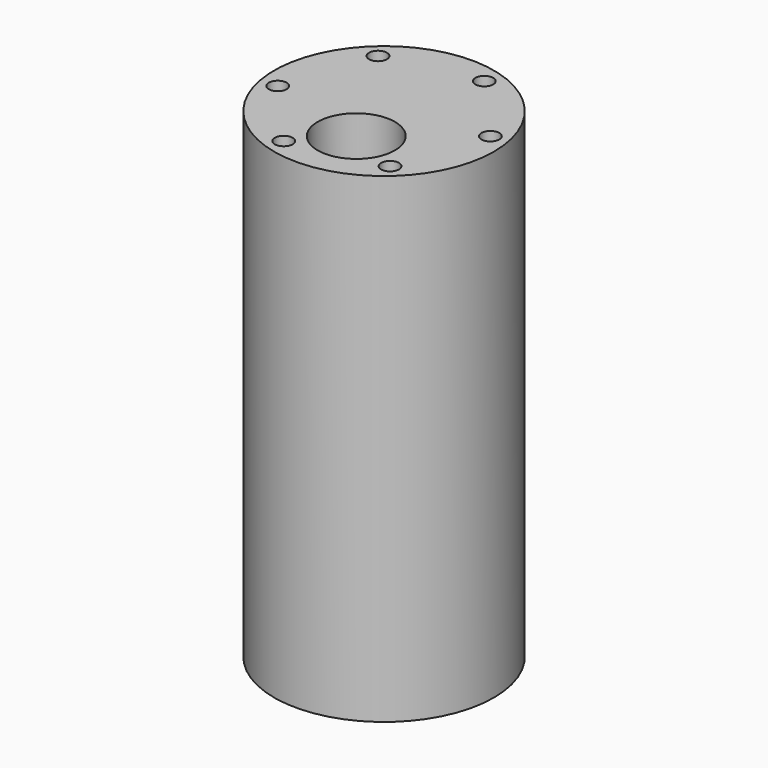
from build123d import *

# Parameters (mm, degrees)
F0_R     = 18.49
F1_DEPTH = 80.85
F2_R     = 1.5
F2_R_2   = 6.5
F3_DEPTH = 9.6


with BuildPart() as f1:
    # F0 (on Top) → F1 (new body)
    with BuildSketch(Plane.XY):
        Circle(F0_R)
    extrude(amount=F1_DEPTH)

    # F2 (on face) → F3 (cut)
    with BuildSketch(Plane.XY.offset(80.85)):
        with Locations((10.407604, -11.74129)):
            Circle(F2_R)
        with Locations((15.372057, 3.142604)):
            Circle(F2_R)
        with Locations((4.964453, 14.883894)):
            Circle(F2_R)
        with Locations((-10.407604, 11.74129)):
            Circle(F2_R)
        with Locations((-15.372057, -3.142604)):
            Circle(F2_R)
        with Locations((-4.964453, -14.883894)):
            Circle(F2_R)
        with Locations((1.602135, -7.836848)):
            Circle(F2_R_2)
    extrude(amount=-F3_DEPTH, mode=Mode.SUBTRACT)


solid = f1.part
